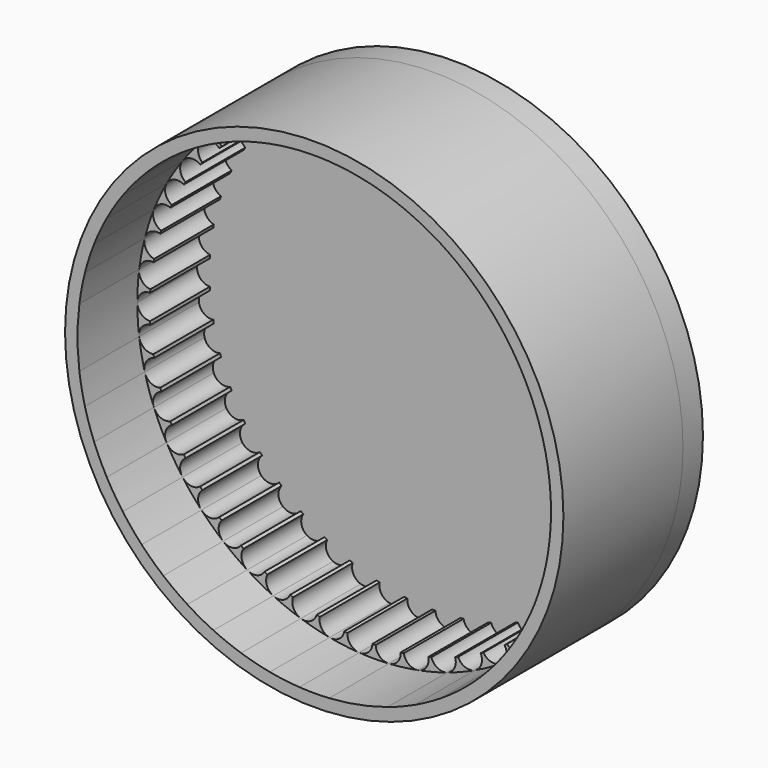
from build123d import *

# Parameters (mm, degrees)
F0_R     = 127
F1_DEPTH = 76.2
F2_DEPTH = 38.1
F3_R     = 127
F4_DEPTH = 12.7


with BuildPart() as f1:
    # F0 (on Front) → F1 (new body)
    with BuildSketch(Plane.XZ):
        Circle(F0_R)
        with BuildLine():
            ThreePointArc((119.6986387714, 15.1214541721), (120.4119247993, 7.5756759511), (120.65, 0))
            ThreePointArc((120.65, 0), (120.4119247863, -7.5756761584), (119.6986387193, -15.1214545841))
            ThreePointArc((119.6986387193, -15.1214545841), (118.5129567609, -22.607555812), (116.8595582738, -30.0044353395))
            ThreePointArc((116.8595582738, -30.0044353395), (114.7449685271, -37.2829008759), (112.177532804, -44.4142278331))
            ThreePointArc((112.177532804, -44.4142278331), (109.1673836498, -51.3702720166), (105.7264007122, -58.1235812081))
            ThreePointArc((105.7264007122, -58.1235812081), (101.8681639149, -64.647503282), (97.6079000069, -70.9162911907))
            ThreePointArc((97.6079000069, -70.9162911907), (92.9624226095, -76.905204522), (87.9500650407, -82.5906081787))
            ThreePointArc((87.9500650407, -82.5906081787), (82.5906085413, -87.9500647002), (76.9052046491, -92.9624225043))
            ThreePointArc((76.9052046491, -92.9624225043), (70.9162906936, -97.607900368), (64.6475025104, -101.8681644046))
            ThreePointArc((64.6475025104, -101.8681644046), (58.1235804445, -105.7264011319), (51.3702711593, -109.1673840532))
            ThreePointArc((51.3702711593, -109.1673840532), (44.4142269685, -112.1775331463), (37.2829001179, -114.7449687733))
            ThreePointArc((37.2829001179, -114.7449687733), (30.0044348177, -116.8595584078), (22.6075557271, -118.5129567771))
            ThreePointArc((22.6075557271, -118.5129567771), (15.1214545585, -119.6986387226), (7.5756759139, -120.4119248017))
            ThreePointArc((7.5756759139, -120.4119248017), (-6.3e-08, -120.65), (-7.5756760396, -120.4119247938))
            ThreePointArc((-7.5756760396, -120.4119247938), (-15.1214546796, -119.6986387073), (-22.6075558433, -118.5129567549))
            ThreePointArc((-22.6075558433, -118.5129567549), (-30.0044351121, -116.8595583322), (-37.2829005836, -114.744968622))
            ThreePointArc((-37.2829005836, -114.744968622), (-44.4142270835, -112.1775331008), (-51.3702709402, -109.1673841563))
            ThreePointArc((-51.3702709402, -109.1673841563), (-58.1235804195, -105.7264011457), (-64.6475026666, -101.8681643055))
            ThreePointArc((-64.6475026666, -101.8681643055), (-70.9162907685, -97.6079003136), (-76.9052046491, -92.9624225043))
            ThreePointArc((-76.9052046491, -92.9624225043), (-82.5906085413, -87.9500647002), (-87.9500650407, -82.5906081787))
            ThreePointArc((-87.9500650407, -82.5906081787), (-92.9624229292, -76.9052041356), (-97.6079005964, -70.9162903793))
            ThreePointArc((-97.6079005964, -70.9162903793), (-101.8681641836, -64.6475028586), (-105.7264007122, -58.1235812081))
            ThreePointArc((-105.7264007122, -58.1235812081), (-109.1673838169, -51.3702716614), (-112.177533093, -44.4142271032))
            ThreePointArc((-112.177533093, -44.4142271032), (-114.7449686484, -37.2829005026), (-116.8595582738, -30.0044353395))
            ThreePointArc((-116.8595582738, -30.0044353395), (-118.5129567998, -22.607555608), (-119.6986387714, -15.1214541721))
            ThreePointArc((-119.6986387714, -15.1214541721), (-120.4119248051, -7.5756758595), (-120.65, 1.836e-07))
            ThreePointArc((-120.65, 1.836e-07), (-120.4119247653, 7.5756764926), (-119.6986386584, 15.1214550665))
            ThreePointArc((-119.6986386584, 15.1214550665), (-118.5129567153, 22.6075560508), (-116.8595582738, 30.0044353395))
            ThreePointArc((-116.8595582738, 30.0044353395), (-114.7449686484, 37.2829005026), (-112.177533093, 44.4142271032))
            ThreePointArc((-112.177533093, 44.4142271032), (-109.1673839845, 51.3702713053), (-105.7264010914, 58.1235805182))
            ThreePointArc((-105.7264010914, 58.1235805182), (-101.8681644748, 64.6475023998), (-97.6079007725, 70.9162901369))
            ThreePointArc((-97.6079007725, 70.9162901369), (-92.9624230247, 76.9052040201), (-87.9500650407, 82.5906081787))
            ThreePointArc((-87.9500650407, 82.5906081787), (-82.5906083646, 87.9500648662), (-76.9052042755, 92.9624228135))
            ThreePointArc((-76.9052042755, 92.9624228135), (-70.9162907683, 97.6079003138), (-64.6475030756, 101.8681640459))
            ThreePointArc((-64.6475030756, 101.8681640459), (-58.1235807378, 105.7264009707), (-51.3702711593, 109.1673840532))
            ThreePointArc((-51.3702711593, 109.1673840532), (-44.4142269685, 112.1775331463), (-37.2829001179, 114.7449687733))
            ThreePointArc((-37.2829001179, 114.7449687733), (-30.0044347623, 116.859558422), (-22.6075556147, 118.5129567985))
            ThreePointArc((-22.6075556147, 118.5129567985), (-15.1214546631, 119.6986387093), (-7.5756762388, 120.4119247812))
            ThreePointArc((-7.5756762388, 120.4119247812), (-2.633e-07, 120.65), (7.5756757131, 120.4119248143))
            ThreePointArc((7.5756757131, 120.4119248143), (15.1214544019, 119.6986387424), (22.6075556147, 118.5129567985))
            ThreePointArc((22.6075556147, 118.5129567985), (30.0044347623, 116.859558422), (37.2829001179, 114.7449687733))
            ThreePointArc((37.2829001179, 114.7449687733), (44.4142269683, 112.1775331464), (51.3702711591, 109.1673840533))
            ThreePointArc((51.3702711591, 109.1673840533), (58.1235807878, 105.7264009432), (64.6475031722, 101.8681639846))
            ThreePointArc((64.6475031722, 101.8681639846), (70.9162910107, 97.6079001377), (76.9052046491, 92.9624225043))
            ThreePointArc((76.9052046491, 92.9624225043), (82.5906085413, 87.9500647002), (87.9500650407, 82.5906081787))
            ThreePointArc((87.9500650407, 82.5906081787), (92.9624227747, 76.9052043223), (97.6079003115, 70.9162907715))
            ThreePointArc((97.6079003115, 70.9162907715), (101.8681642647, 64.6475027309), (105.7264010914, 58.1235805182))
            ThreePointArc((105.7264010914, 58.1235805182), (109.1673839451, 51.3702713891), (112.1775330248, 44.4142272755))
            ThreePointArc((112.1775330248, 44.4142272755), (114.7449686197, 37.2829005908), (116.8595582738, 30.0044353395))
            ThreePointArc((116.8595582738, 30.0044353395), (118.5129567998, 22.607555608), (119.6986387714, 15.1214541721))
        make_face(mode=Mode.SUBTRACT)
    extrude(amount=F1_DEPTH)

    # F0 (on Front) → F2 (join)
    with BuildSketch(Plane.XZ):
        with BuildLine():
            ThreePointArc((-103.7727612086, -47.913505728), (-108.7141495658, -47.9388456002), (-112.177533093, -44.4142271032))
            ThreePointArc((-112.177533093, -44.4142271032), (-109.1673838169, -51.3702716614), (-105.7264007122, -58.1235812081))
            ThreePointArc((-105.7264007122, -58.1235812081), (-106.2345223801, -53.2083218328), (-103.065238148, -49.4170687667))
            ThreePointArc((-103.065238148, -49.4170687667), (-103.4217320969, -48.6665730259), (-103.7727612086, -47.913505728))
        make_face()
        with BuildLine():
            ThreePointArc((-108.9596365953, -34.5295177061), (-113.8652362715, -33.9353377487), (-116.8595582738, -30.0044353395))
            ThreePointArc((-116.8595582738, -30.0044353395), (-114.7449686484, -37.2829005026), (-112.177533093, -44.4142271032))
            ThreePointArc((-112.177533093, -44.4142271032), (-112.0656023289, -39.4740418066), (-108.4461389829, -36.1099008541))
            ThreePointArc((-108.4461389829, -36.1099008541), (-108.7057598125, -35.3206424571), (-108.9596365953, -34.5295177061))
        make_face()
        with BuildLine():
            ThreePointArc((-112.4281534236, -20.600978563), (-117.2206008566, -19.3966489425), (-119.6986387714, -15.1214541721))
            ThreePointArc((-119.6986387714, -15.1214541721), (-118.5129567998, -22.607555608), (-116.8595582738, -30.0044353395))
            ThreePointArc((-116.8595582738, -30.0044353395), (-116.1293410554, -25.1172331668), (-112.1167794235, -22.2332582341))
            ThreePointArc((-112.1167794235, -22.2332582341), (-112.2754327583, -21.4176842571), (-112.4281534236, -20.600978563))
        make_face()
        with BuildLine():
            ThreePointArc((-114.0192712772, -8.0059838502), (-114.0744550594, -7.1769563822), (-114.1236111111, -6.3475496816))
            ThreePointArc((-114.1236111111, -6.3475496816), (-118.7273260396, -4.5520637231), (-120.65, 1.836e-07))
            ThreePointArc((-120.65, 1.836e-07), (-120.4119248051, -7.5756758595), (-119.6986387714, -15.1214541721))
            ThreePointArc((-119.6986387714, -15.1214541721), (-118.3616502763, -10.364310092), (-114.0192712772, -8.0059838502))
        make_face()
        with BuildLine():
            ThreePointArc((-120.65, 1.836e-07), (-118.7273259079, 4.5520638512), (-114.1236111111, 6.3475496816))
            ThreePointArc((-114.1236111111, 6.3475496816), (-114.0744550594, 7.1769563822), (-114.0192712772, 8.0059838502))
            ThreePointArc((-114.0192712772, 8.0059838502), (-118.3616505575, 10.3643104443), (-119.6986386584, 15.1214550665))
            ThreePointArc((-119.6986386584, 15.1214550665), (-120.4119247653, 7.5756764926), (-120.65, 1.836e-07))
        make_face()
        with BuildLine():
            ThreePointArc((-119.6986386584, 15.1214550665), (-117.2206004966, 19.3966492138), (-112.4281534236, 20.600978563))
            ThreePointArc((-112.4281534236, 20.600978563), (-112.2754327583, 21.4176842571), (-112.1167794235, 22.2332582341))
            ThreePointArc((-112.1167794235, 22.2332582341), (-116.1293410554, 25.1172331668), (-116.8595582738, 30.0044353395))
            ThreePointArc((-116.8595582738, 30.0044353395), (-118.5129567153, 22.6075560508), (-119.6986386584, 15.1214550665))
        make_face()
        with BuildLine():
            ThreePointArc((-112.177533093, 44.4142271032), (-114.7449686484, 37.2829005026), (-116.8595582738, 30.0044353395))
            ThreePointArc((-116.8595582738, 30.0044353395), (-113.8652362715, 33.9353377487), (-108.9596365953, 34.5295177061))
            ThreePointArc((-108.9596365953, 34.5295177061), (-108.7057598125, 35.3206424571), (-108.4461389829, 36.1099008541))
            ThreePointArc((-108.4461389829, 36.1099008541), (-112.0656023289, 39.4740418066), (-112.177533093, 44.4142271032))
        make_face()
        with BuildLine():
            ThreePointArc((-105.7264010914, 58.1235805182), (-109.1673839845, 51.3702713053), (-112.177533093, 44.4142271032))
            ThreePointArc((-112.177533093, 44.4142271032), (-108.7141495658, 47.9388456002), (-103.7727612086, 47.913505728))
            ThreePointArc((-103.7727612086, 47.913505728), (-103.4217320969, 48.6665730259), (-103.065238148, 49.4170687667))
            ThreePointArc((-103.065238148, 49.4170687667), (-106.234522265, 53.2083214564), (-105.7264010914, 58.1235805182))
        make_face()
        with BuildLine():
            ThreePointArc((-97.6079007725, 70.9162901369), (-101.8681644748, 64.6475023998), (-105.7264010914, 58.1235805182))
            ThreePointArc((-105.7264010914, 58.1235805182), (-101.8485755445, 61.186329369), (-96.9493273868, 60.5418691424))
            ThreePointArc((-96.9493273868, 60.5418691424), (-96.5066818849, 61.2450026661), (-96.0589369393, 61.9448999845))
            ThreePointArc((-96.0589369393, 61.9448999845), (-98.728060313, 66.1034739519), (-97.6079007725, 70.9162901369))
        make_face()
        with BuildLine():
            ThreePointArc((-87.9500650407, 82.5906081787), (-92.9624230247, 76.9052040201), (-97.6079007725, 70.9162901369))
            ThreePointArc((-97.6079007725, 70.9162901369), (-93.3767887857, 73.4688681661), (-88.5969447573, 72.2154511145))
            ThreePointArc((-88.5969447573, 72.2154511145), (-88.0696636493, 72.8575620283), (-87.5377289123, 73.4958231254))
            ThreePointArc((-87.5377289123, 73.4958231254), (-89.6645979393, 77.9561355953), (-87.9500650407, 82.5906081787))
        make_face()
        with BuildLine():
            ThreePointArc((-77.6359986078, 83.8876732314), (-79.1870712398, 88.5793823381), (-76.9052042755, 92.9624228135))
            ThreePointArc((-76.9052042755, 92.9624228135), (-82.5906083646, 87.9500648662), (-87.9500650407, 82.5906081787))
            ThreePointArc((-87.9500650407, 82.5906081787), (-83.4323938649, 84.592759079), (-78.8473353838, 82.7501522831))
            ThreePointArc((-78.8473353838, 82.7501522831), (-78.2437342076, 83.3211141143), (-77.6359986078, 83.8876732314))
        make_face()
        with BuildLine():
            ThreePointArc((-66.5099022277, 92.9565646184), (-67.4607171588, 97.8056789387), (-64.6475030756, 101.8681640459))
            ThreePointArc((-64.6475030756, 101.8681640459), (-70.9162907683, 97.6079003138), (-76.9052042755, 92.9624228135))
            ThreePointArc((-76.9052042755, 92.9624228135), (-72.1722203278, 94.3825715968), (-67.8542564302, 91.9798341177))
            ThreePointArc((-67.8542564302, 91.9798341177), (-67.183854337, 92.4706424571), (-66.5099022277, 92.9565646184))
        make_face()
        with BuildLine():
            ThreePointArc((-54.3349049585, 100.5594754519), (-54.6704671355, 105.4895221058), (-51.3702711593, 109.1673840532))
            ThreePointArc((-51.3702711593, 109.1673840532), (-58.1235807378, 105.7264009707), (-64.6475030756, 101.8681640459))
            ThreePointArc((-64.6475030756, 101.8681640459), (-59.7738481294, 102.6839146253), (-55.7910753184, 99.7589390221))
            ThreePointArc((-55.7910753184, 99.7589390221), (-55.0644449498, 100.161853529), (-54.3349049585, 100.5594754519))
        make_face()
        with BuildLine():
            ThreePointArc((-41.3030137799, 106.5765032861), (-41.0180312911, 111.5097320794), (-37.2829001179, 114.7449687733))
            ThreePointArc((-37.2829001179, 114.7449687733), (-44.4142269685, 112.1775331463), (-51.3702711593, 109.1673840532))
            ThreePointArc((-51.3702711593, 109.1673840532), (-46.432806093, 109.3658708309), (-42.848035621, 105.964785865))
            ThreePointArc((-42.848035621, 105.964785865), (-42.0766363719, 106.273452337), (-41.3030137799, 106.5765032861))
        make_face()
        with BuildLine():
            ThreePointArc((-27.6197494008, 110.9127559978), (-26.7187166436, 115.7713669164), (-22.6075556147, 118.5129567985))
            ThreePointArc((-22.6075556147, 118.5129567985), (-30.0044347623, 116.859558422), (-37.2829001179, 114.7449687733))
            ThreePointArc((-37.2829001179, 114.7449687733), (-32.3594913774, 114.3230620372), (-29.2292568056, 110.4995047346))
            ThreePointArc((-29.2292568056, 110.4995047346), (-28.4252541029, 110.709055317), (-27.6197494008, 110.9127559978))
        make_face()
        with BuildLine():
            ThreePointArc((-15.1495151497, 113.2915804053), (-14.3255885964, 113.3987103602), (-13.5009050745, 113.4998482914))
            ThreePointArc((-13.5009050745, 113.4998482914), (-11.9980318281, 118.2072182446), (-7.5756762388, 120.4119247812))
            ThreePointArc((-7.5756762388, 120.4119247812), (-15.1214546631, 119.6986387093), (-22.6075556147, 118.5129567985))
            ThreePointArc((-22.6075556147, 118.5129567985), (-17.7758481997, 117.4773103165), (-15.1495151497, 113.2915804053))
        make_face()
        with BuildLine():
            ThreePointArc((0.83085659, -114.2969801759), (0.4154310389, -114.2992450415), (0, -114.3))
            ThreePointArc((0, -114.3), (-0.4154310389, -114.2992450415), (-0.83085659, -114.2969801759))
            ThreePointArc((-0.83085659, -114.2969801759), (-2.9118690986, -118.7788711191), (-7.5756760396, -120.4119247938))
            ThreePointArc((-7.5756760396, -120.4119247938), (-6.3e-08, -120.65), (7.5756759139, -120.4119248017))
            ThreePointArc((7.5756759139, -120.4119248017), (2.9118690519, -118.7788710768), (0.83085659, -114.2969801759))
        make_face()
        with BuildLine():
            ThreePointArc((13.5269563822, 114.0744550594), (13.5204402119, 113.7868565508), (13.5009050745, 113.4998482914))
            ThreePointArc((13.5009050745, 113.4998482914), (14.3255885964, 113.3987103602), (15.1495151497, 113.2915804053))
            ThreePointArc((15.1495151497, 113.2915804053), (17.7758481997, 117.4773103165), (22.6075556147, 118.5129567985))
            ThreePointArc((22.6075556147, 118.5129567985), (15.1214544019, 119.6986387424), (7.5756757131, 120.4119248143))
            ThreePointArc((7.5756757131, 120.4119248143), (11.8059070058, 118.421329353), (13.5269563822, 114.0744550594))
        make_face()
        with BuildLine():
            ThreePointArc((37.2829001179, 114.7449687733), (30.0044347623, 116.859558422), (22.6075556147, 118.5129567985))
            ThreePointArc((22.6075556147, 118.5129567985), (26.310443352, 116.3230750893), (27.7676842571, 112.2754327583))
            ThreePointArc((27.7676842571, 112.2754327583), (27.7305922108, 111.5900911144), (27.6197494008, 110.9127559978))
            ThreePointArc((27.6197494008, 110.9127559978), (28.4252541029, 110.709055317), (29.2292568056, 110.4995047346))
            ThreePointArc((29.2292568056, 110.4995047346), (32.3594913774, 114.3230620372), (37.2829001179, 114.7449687733))
        make_face()
        with BuildLine():
            ThreePointArc((51.3702711591, 109.1673840533), (44.4142269683, 112.1775331464), (37.2829001179, 114.7449687733))
            ThreePointArc((37.2829001179, 114.7449687733), (40.457900293, 112.4381962724), (41.6706424571, 108.7057598125))
            ThreePointArc((41.6706424571, 108.7057598125), (41.578060371, 107.6253797637), (41.3030137799, 106.5765032861))
            ThreePointArc((41.3030137799, 106.5765032861), (42.0766363719, 106.273452337), (42.848035621, 105.964785865))
            ThreePointArc((42.848035621, 105.964785865), (46.4328060929, 109.3658708309), (51.3702711591, 109.1673840533))
        make_face()
        with BuildLine():
            ThreePointArc((64.6475031722, 101.8681639846), (58.1235807878, 105.7264009432), (51.3702711591, 109.1673840533))
            ThreePointArc((51.3702711591, 109.1673840533), (54.0280552438, 106.8242324168), (55.0165730259, 103.4217320969))
            ThreePointArc((55.0165730259, 103.4217320969), (54.8438057304, 101.9505774096), (54.3349049585, 100.5594754519))
            ThreePointArc((54.3349049585, 100.5594754519), (55.0644449498, 100.161853529), (55.7910753184, 99.7589390221))
            ThreePointArc((55.7910753184, 99.7589390221), (59.773848185, 102.6839146385), (64.6475031722, 101.8681639846))
        make_face()
        with BuildLine():
            ThreePointArc((76.9052046491, 92.9624225043), (70.9162910107, 97.6079001377), (64.6475031722, 101.8681639846))
            ThreePointArc((64.6475031722, 101.8681639846), (66.8095501865, 99.5658175297), (67.5950026661, 96.5066818849))
            ThreePointArc((67.5950026661, 96.5066818849), (67.3176714458, 94.6505585345), (66.5099022277, 92.9565646184))
            ThreePointArc((66.5099022277, 92.9565646184), (67.183854337, 92.4706424571), (67.8542564302, 91.9798341177))
            ThreePointArc((67.8542564302, 91.9798341177), (72.1722205689, 94.3825716229), (76.9052046491, 92.9624225043))
        make_face()
        with BuildLine():
            ThreePointArc((87.9500650407, 82.5906081787), (82.5906085413, 87.9500647002), (76.9052046491, 92.9624225043))
            ThreePointArc((76.9052046491, 92.9624225043), (78.6032138904, 90.7733619828), (79.2075620283, 88.0696636493))
            ThreePointArc((79.2075620283, 88.0696636493), (78.8017008339, 85.8358969067), (77.6359986078, 83.8876732314))
            ThreePointArc((77.6359986078, 83.8876732314), (78.2437342076, 83.3211141143), (78.8473353838, 82.7501522831))
            ThreePointArc((78.8473353838, 82.7501522831), (83.4323938649, 84.592759079), (87.9500650407, 82.5906081787))
        make_face()
        with BuildLine():
            ThreePointArc((88.5969447573, 72.2154511145), (93.3767883975, 73.468868222), (97.6079003115, 70.9162907715))
            ThreePointArc((97.6079003115, 70.9162907715), (92.9624227747, 76.9052043223), (87.9500650407, 82.5906081787))
            ThreePointArc((87.9500650407, 82.5906081787), (89.2251948379, 80.5813250205), (89.6711141143, 78.2437342076))
            ThreePointArc((89.6711141143, 78.2437342076), (89.1132641454, 75.6411397298), (87.5377289123, 73.4958231254))
            ThreePointArc((87.5377289123, 73.4958231254), (88.0696636493, 72.8575620283), (88.5969447573, 72.2154511145))
        make_face()
        with BuildLine():
            ThreePointArc((96.9493273868, 60.5418691424), (101.8485755445, 61.186329369), (105.7264010914, 58.1235805182))
            ThreePointArc((105.7264010914, 58.1235805182), (101.8681642647, 64.6475027309), (97.6079003115, 70.9162907715))
            ThreePointArc((97.6079003115, 70.9162907715), (98.5098513198, 69.1461122998), (98.8206424571, 67.183854337))
            ThreePointArc((98.8206424571, 67.183854337), (98.0879447439, 64.2227033752), (96.0589369393, 61.9448999845))
            ThreePointArc((96.0589369393, 61.9448999845), (96.5066818849, 61.2450026661), (96.9493273868, 60.5418691424))
        make_face()
        with BuildLine():
            ThreePointArc((103.7727612086, 47.913505728), (108.7141494803, 47.9388456359), (112.1775330248, 44.4142272755))
            ThreePointArc((112.1775330248, 44.4142272755), (109.1673839451, 51.3702713891), (105.7264010914, 58.1235805182))
            ThreePointArc((105.7264010914, 58.1235805182), (106.3123566394, 56.6436255884), (106.511853529, 55.0644449498))
            ThreePointArc((106.511853529, 55.0644449498), (105.5821391456, 51.7564238141), (103.065238148, 49.4170687667))
            ThreePointArc((103.065238148, 49.4170687667), (103.4217320969, 48.6665730259), (103.7727612086, 47.913505728))
        make_face()
        with BuildLine():
            ThreePointArc((108.9596365953, 34.5295177061), (113.8652362715, 33.9353377487), (116.8595582738, 30.0044353395))
            ThreePointArc((116.8595582738, 30.0044353395), (114.7449686197, 37.2829005908), (112.1775330248, 44.4142272755))
            ThreePointArc((112.1775330248, 44.4142272755), (112.5109763797, 43.2665077164), (112.623452337, 42.0766363719))
            ThreePointArc((112.623452337, 42.0766363719), (111.4753298924, 38.4348003103), (108.4461389829, 36.1099008541))
            ThreePointArc((108.4461389829, 36.1099008541), (108.7057598125, 35.3206424571), (108.9596365953, 34.5295177061))
        make_face()
        with BuildLine():
            ThreePointArc((112.1167794235, 22.2332582341), (112.2754327583, 21.4176842571), (112.4281534236, 20.600978563))
            ThreePointArc((112.4281534236, 20.600978563), (117.2206008566, 19.3966489425), (119.6986387714, 15.1214541721))
            ThreePointArc((119.6986387714, 15.1214541721), (118.5129567998, 22.607555608), (116.8595582738, 30.0044353395))
            ThreePointArc((116.8595582738, 30.0044353395), (117.008983641, 29.2211203681), (117.059055317, 28.4252541029))
            ThreePointArc((117.059055317, 28.4252541029), (115.6719953769, 24.4639757787), (112.1167794235, 22.2332582341))
        make_face()
        with BuildLine():
            ThreePointArc((114.0192712772, 8.0059838502), (114.0744550594, 7.1769563822), (114.1236111111, 6.3475496816))
            ThreePointArc((114.1236111111, 6.3475496816), (118.7273259737, 4.5520637871), (120.65, 0))
            ThreePointArc((120.65, 0), (120.4119247993, 7.5756759511), (119.6986387714, 15.1214541721))
            ThreePointArc((119.6986387714, 15.1214541721), (119.7361801002, 14.7243081653), (119.7487103602, 14.3255885964))
            ThreePointArc((119.7487103602, 14.3255885964), (118.1031264676, 10.0605013653), (114.0192712772, 8.0059838502))
        make_face()
        with BuildLine():
            ThreePointArc((120.65, 0), (118.7273259737, -4.5520637871), (114.1236111111, -6.3475496816))
            ThreePointArc((114.1236111111, -6.3475496816), (114.0744550594, -7.1769563822), (114.0192712772, -8.0059838502))
            ThreePointArc((114.0192712772, -8.0059838502), (118.1031264676, -10.0605013653), (119.7487103602, -14.3255885964))
            ThreePointArc((119.7487103602, -14.3255885964), (119.7361800872, -14.7243083726), (119.6986387193, -15.1214545841))
            ThreePointArc((119.6986387193, -15.1214545841), (120.4119247863, -7.5756761584), (120.65, 0))
        make_face()
        with BuildLine():
            ThreePointArc((116.8595582738, -30.0044353395), (118.5129567609, -22.607555812), (119.6986387193, -15.1214545841))
            ThreePointArc((119.6986387193, -15.1214545841), (117.2206006908, -19.3966490675), (112.4281534236, -20.600978563))
            ThreePointArc((112.4281534236, -20.600978563), (112.2754327583, -21.4176842571), (112.1167794235, -22.2332582341))
            ThreePointArc((112.1167794235, -22.2332582341), (115.6719953769, -24.4639757787), (117.059055317, -28.4252541029))
            ThreePointArc((117.059055317, -28.4252541029), (117.008983641, -29.2211203681), (116.8595582738, -30.0044353395))
        make_face()
        with BuildLine():
            ThreePointArc((112.177532804, -44.4142278331), (114.7449685271, -37.2829008759), (116.8595582738, -30.0044353395))
            ThreePointArc((116.8595582738, -30.0044353395), (113.8652362715, -33.9353377486), (108.9596365953, -34.5295177061))
            ThreePointArc((108.9596365953, -34.5295177061), (108.7057598125, -35.3206424571), (108.4461389829, -36.1099008541))
            ThreePointArc((108.4461389829, -36.1099008541), (111.4753298924, -38.4348003103), (112.623452337, -42.0766363719))
            ThreePointArc((112.623452337, -42.0766363719), (112.5109763236, -43.2665080109), (112.177532804, -44.4142278331))
        make_face()
        with BuildLine():
            ThreePointArc((105.7264007122, -58.1235812081), (109.1673836498, -51.3702720166), (112.177532804, -44.4142278331))
            ThreePointArc((112.177532804, -44.4142278331), (108.7141492035, -47.9388457511), (103.7727612086, -47.913505728))
            ThreePointArc((103.7727612086, -47.913505728), (103.4217320969, -48.6665730259), (103.065238148, -49.4170687667))
            ThreePointArc((103.065238148, -49.4170687667), (105.5821391456, -51.7564238141), (106.511853529, -55.0644449498))
            ThreePointArc((106.511853529, -55.0644449498), (106.3123565415, -56.6436259697), (105.7264007122, -58.1235812081))
        make_face()
        with BuildLine():
            ThreePointArc((97.6079000069, -70.9162911907), (101.8681639149, -64.647503282), (105.7264007122, -58.1235812081))
            ThreePointArc((105.7264007122, -58.1235812081), (101.8485751651, -61.1863294736), (96.9493273868, -60.5418691424))
            ThreePointArc((96.9493273868, -60.5418691424), (96.5066818849, -61.2450026661), (96.0589369393, -61.9448999845))
            ThreePointArc((96.0589369393, -61.9448999845), (98.0879447439, -64.2227033752), (98.8206424571, -67.183854337))
            ThreePointArc((98.8206424571, -67.183854337), (98.5098512397, -69.1461125462), (97.6079000069, -70.9162911907))
        make_face()
        with BuildLine():
            ThreePointArc((87.9500650407, -82.5906081787), (92.9624226095, -76.905204522), (97.6079000069, -70.9162911907))
            ThreePointArc((97.6079000069, -70.9162911907), (93.376788141, -73.468868259), (88.5969447573, -72.2154511145))
            ThreePointArc((88.5969447573, -72.2154511145), (88.0696636493, -72.8575620283), (87.5377289123, -73.4958231254))
            ThreePointArc((87.5377289123, -73.4958231254), (89.1132641454, -75.6411397298), (89.6711141143, -78.2437342076))
            ThreePointArc((89.6711141143, -78.2437342076), (89.2251948379, -80.5813250205), (87.9500650407, -82.5906081787))
        make_face()
        with BuildLine():
            ThreePointArc((79.2075620283, -88.0696636493), (78.6032138904, -90.7733619828), (76.9052046491, -92.9624225043))
            ThreePointArc((76.9052046491, -92.9624225043), (82.5906085413, -87.9500647002), (87.9500650407, -82.5906081787))
            ThreePointArc((87.9500650407, -82.5906081787), (83.4323938649, -84.592759079), (78.8473353838, -82.7501522831))
            ThreePointArc((78.8473353838, -82.7501522831), (78.2437342076, -83.3211141143), (77.6359986078, -83.8876732314))
            ThreePointArc((77.6359986078, -83.8876732314), (78.8017008339, -85.8358969067), (79.2075620283, -88.0696636493))
        make_face()
        with BuildLine():
            ThreePointArc((67.5950026661, -96.5066818849), (66.8095499977, -99.5658178731), (64.6475025104, -101.8681644046))
            ThreePointArc((64.6475025104, -101.8681644046), (70.9162906936, -97.607900368), (76.9052046491, -92.9624225043))
            ThreePointArc((76.9052046491, -92.9624225043), (72.1722205689, -94.3825716229), (67.8542564302, -91.9798341177))
            ThreePointArc((67.8542564302, -91.9798341177), (67.183854337, -92.4706424571), (66.5099022277, -92.9565646184))
            ThreePointArc((66.5099022277, -92.9565646184), (67.3176714458, -94.6505585345), (67.5950026661, -96.5066818849))
        make_face()
        with BuildLine():
            ThreePointArc((55.0165730259, -103.4217320969), (54.0280552439, -106.8242324167), (51.3702711593, -109.1673840532))
            ThreePointArc((51.3702711593, -109.1673840532), (58.1235804445, -105.7264011319), (64.6475025104, -101.8681644046))
            ThreePointArc((64.6475025104, -101.8681644046), (59.7738478037, -102.6839145477), (55.7910753184, -99.7589390221))
            ThreePointArc((55.7910753184, -99.7589390221), (55.0644449498, -100.161853529), (54.3349049585, -100.5594754519))
            ThreePointArc((54.3349049585, -100.5594754519), (54.8438057304, -101.9505774096), (55.0165730259, -103.4217320969))
        make_face()
        with BuildLine():
            ThreePointArc((41.6706424571, -108.7057598125), (40.457900293, -112.4381962724), (37.2829001179, -114.7449687733))
            ThreePointArc((37.2829001179, -114.7449687733), (44.4142269685, -112.1775331463), (51.3702711593, -109.1673840532))
            ThreePointArc((51.3702711593, -109.1673840532), (46.432806093, -109.3658708309), (42.848035621, -105.964785865))
            ThreePointArc((42.848035621, -105.964785865), (42.0766363719, -106.273452337), (41.3030137799, -106.5765032861))
            ThreePointArc((41.3030137799, -106.5765032861), (41.578060371, -107.6253797637), (41.6706424571, -108.7057598125))
        make_face()
        with BuildLine():
            ThreePointArc((27.7676842571, -112.2754327583), (26.3104433885, -116.3230750452), (22.6075557271, -118.5129567771))
            ThreePointArc((22.6075557271, -118.5129567771), (30.0044348177, -116.8595584078), (37.2829001179, -114.7449687733))
            ThreePointArc((37.2829001179, -114.7449687733), (32.3594913774, -114.3230620372), (29.2292568056, -110.4995047346))
            ThreePointArc((29.2292568056, -110.4995047346), (28.4252541029, -110.709055317), (27.6197494008, -110.9127559978))
            ThreePointArc((27.6197494008, -110.9127559978), (27.7305922108, -111.5900911144), (27.7676842571, -112.2754327583))
        make_face()
        with BuildLine():
            ThreePointArc((15.1495151497, -113.2915804053), (14.3255885964, -113.3987103602), (13.5009050745, -113.4998482914))
            ThreePointArc((13.5009050745, -113.4998482914), (13.5204402119, -113.7868565508), (13.5269563822, -114.0744550594))
            ThreePointArc((13.5269563822, -114.0744550594), (11.8059070747, -118.4213292796), (7.5756759139, -120.4119248017))
            ThreePointArc((7.5756759139, -120.4119248017), (15.1214545585, -119.6986387226), (22.6075557271, -118.5129567771))
            ThreePointArc((22.6075557271, -118.5129567771), (17.7758482466, -117.4773103494), (15.1495151497, -113.2915804053))
        make_face()
        with BuildLine():
            ThreePointArc((-0.83085659, 114.2969801759), (-0.4154310389, 114.2992450415), (0, 114.3))
            ThreePointArc((0, 114.3), (0.4154310389, 114.2992450415), (0.83085659, 114.2969801759))
            ThreePointArc((0.83085659, 114.2969801759), (2.9118689774, 118.7788710092), (7.5756757131, 120.4119248143))
            ThreePointArc((7.5756757131, 120.4119248143), (-2.633e-07, 120.65), (-7.5756762388, 120.4119247812))
            ThreePointArc((-7.5756762388, 120.4119247812), (-2.9118691725, 118.7788711861), (-0.83085659, 114.2969801759))
        make_face()
        with BuildLine():
            ThreePointArc((-7.5756760396, -120.4119247938), (-11.9980317631, -118.2072183203), (-13.5009050745, -113.4998482914))
            ThreePointArc((-13.5009050745, -113.4998482914), (-14.3255885964, -113.3987103602), (-15.1495151497, -113.2915804053))
            ThreePointArc((-15.1495151497, -113.2915804053), (-17.775848295, -117.4773103833), (-22.6075558433, -118.5129567549))
            ThreePointArc((-22.6075558433, -118.5129567549), (-15.1214546796, -119.6986387073), (-7.5756760396, -120.4119247938))
        make_face()
        with BuildLine():
            ThreePointArc((-37.2829005836, -114.744968622), (-30.0044351121, -116.8595583322), (-22.6075558433, -118.5129567549))
            ThreePointArc((-22.6075558433, -118.5129567549), (-26.7187167077, -115.7713668193), (-27.6197494008, -110.9127559978))
            ThreePointArc((-27.6197494008, -110.9127559978), (-28.4252541029, -110.709055317), (-29.2292568056, -110.4995047346))
            ThreePointArc((-29.2292568056, -110.4995047346), (-32.3594915939, -114.3230621514), (-37.2829005836, -114.744968622))
        make_face()
        with BuildLine():
            ThreePointArc((-51.3702709402, -109.1673841563), (-44.4142270835, -112.1775331008), (-37.2829005836, -114.744968622))
            ThreePointArc((-37.2829005836, -114.744968622), (-41.0180313992, -111.5097318598), (-41.3030137799, -106.5765032861))
            ThreePointArc((-41.3030137799, -106.5765032861), (-42.0766363719, -106.273452337), (-42.848035621, -105.964785865))
            ThreePointArc((-42.848035621, -105.964785865), (-46.4328059797, -109.3658707883), (-51.3702709402, -109.1673841563))
        make_face()
        with BuildLine():
            ThreePointArc((-64.6475026666, -101.8681643055), (-58.1235804195, -105.7264011457), (-51.3702709402, -109.1673841563))
            ThreePointArc((-51.3702709402, -109.1673841563), (-54.670467096, -105.4895222203), (-54.3349049585, -100.5594754519))
            ThreePointArc((-54.3349049585, -100.5594754519), (-55.0644449498, -100.161853529), (-55.7910753184, -99.7589390221))
            ThreePointArc((-55.7910753184, -99.7589390221), (-59.7738478938, -102.6839145692), (-64.6475026666, -101.8681643055))
        make_face()
        with BuildLine():
            ThreePointArc((-76.9052046491, -92.9624225043), (-70.9162907685, -97.6079003136), (-64.6475026666, -101.8681643055))
            ThreePointArc((-64.6475026666, -101.8681643055), (-67.4607171092, -97.8056791758), (-66.5099022277, -92.9565646184))
            ThreePointArc((-66.5099022277, -92.9565646184), (-67.183854337, -92.4706424571), (-67.8542564302, -91.9798341177))
            ThreePointArc((-67.8542564302, -91.9798341177), (-72.1722205689, -94.3825716229), (-76.9052046491, -92.9624225043))
        make_face()
        with BuildLine():
            ThreePointArc((-87.9500650407, -82.5906081787), (-82.5906085413, -87.9500647002), (-76.9052046491, -92.9624225043))
            ThreePointArc((-76.9052046491, -92.9624225043), (-79.1870712592, -88.5793820964), (-77.6359986078, -83.8876732314))
            ThreePointArc((-77.6359986078, -83.8876732314), (-78.2437342076, -83.3211141143), (-78.8473353838, -82.7501522831))
            ThreePointArc((-78.8473353838, -82.7501522831), (-83.4323938649, -84.592759079), (-87.9500650407, -82.5906081787))
        make_face()
        with BuildLine():
            ThreePointArc((-88.5969447573, -72.2154511145), (-93.3767886374, -73.4688681874), (-97.6079005964, -70.9162903793))
            ThreePointArc((-97.6079005964, -70.9162903793), (-92.9624229292, -76.9052041356), (-87.9500650407, -82.5906081787))
            ThreePointArc((-87.9500650407, -82.5906081787), (-89.6645979393, -77.9561355953), (-87.5377289123, -73.4958231254))
            ThreePointArc((-87.5377289123, -73.4958231254), (-88.0696636493, -72.8575620283), (-88.5969447573, -72.2154511145))
        make_face()
        with BuildLine():
            ThreePointArc((-96.9493273868, -60.5418691424), (-101.8485751651, -61.1863294736), (-105.7264007122, -58.1235812081))
            ThreePointArc((-105.7264007122, -58.1235812081), (-101.8681641836, -64.6475028586), (-97.6079005964, -70.9162903793))
            ThreePointArc((-97.6079005964, -70.9162903793), (-98.7280603385, -66.1034740995), (-96.0589369393, -61.9448999845))
            ThreePointArc((-96.0589369393, -61.9448999845), (-96.5066818849, -61.2450026661), (-96.9493273868, -60.5418691424))
        make_face()
    extrude(amount=F2_DEPTH)


with BuildPart() as f4:
    # F3 (on Front) → F4 (new body)
    with BuildSketch(Plane.XZ):
        Circle(F3_R)
    extrude(amount=-F4_DEPTH)


solid = Compound([f1.part, f4.part])
